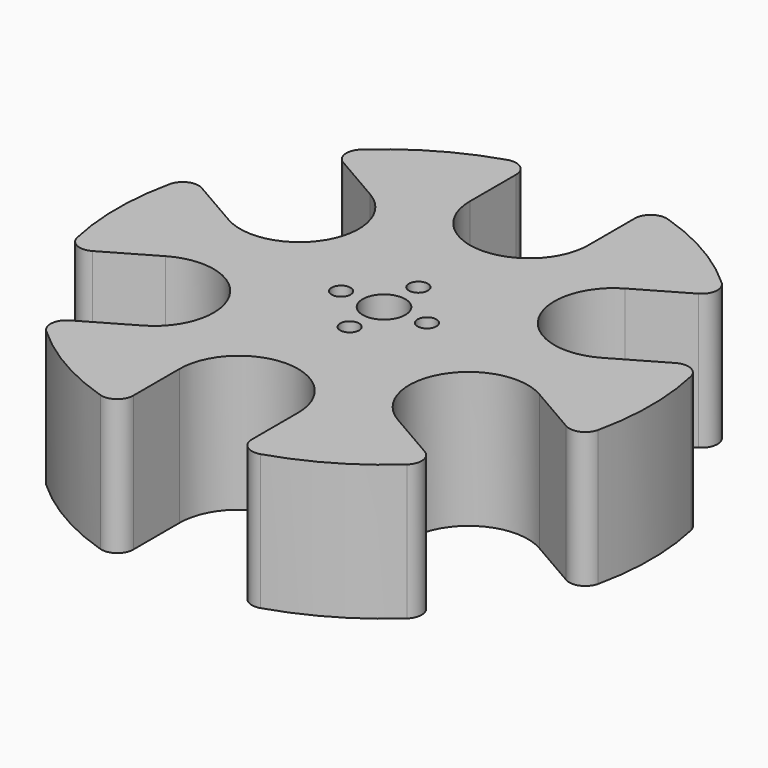
from build123d import *

# Parameters (mm, degrees)
F0_R     = 1.775
F0_R_2   = 4
F1_DEPTH = 25.4


with BuildPart() as f1:
    # F0 (on Top) → F1 (new body)
    with BuildSketch(Plane.XY):
        with BuildLine():
            ThreePointArc((-11.1125, 44.831209), (-12.338013, 47.250134), (-15.013298, 47.692776))
            ThreePointArc((-15.013298, 47.692776), (-25, 43.30127), (-33.796507, 36.848285))
            ThreePointArc((-33.796507, 36.848285), (-34.75081, 34.3101), (-33.268716, 32.039312))
            Line((-33.268716, 32.039312), (-23.888614, 26.623707))
            ThreePointArc((-23.888614, 26.623707), (-19.821156, 11.44375), (-35.001114, 7.376293))
            Line((-35.001114, 7.376293), (-44.381216, 12.791897))
            ThreePointArc((-44.381216, 12.791897), (-47.088823, 12.940034), (-48.809805, 10.844491))
            ThreePointArc((-48.809805, 10.844491), (-50, 0), (-48.809805, -10.844491))
            ThreePointArc((-48.809805, -10.844491), (-47.088823, -12.940034), (-44.381216, -12.791897))
            Line((-44.381216, -12.791897), (-35.001114, -7.376293))
            ThreePointArc((-35.001114, -7.376293), (-19.821156, -11.44375), (-23.888614, -26.623707))
            Line((-23.888614, -26.623707), (-33.268716, -32.039312))
            ThreePointArc((-33.268716, -32.039312), (-34.75081, -34.3101), (-33.796507, -36.848285))
            ThreePointArc((-33.796507, -36.848285), (-25, -43.30127), (-15.013298, -47.692776))
            ThreePointArc((-15.013298, -47.692776), (-12.338013, -47.250134), (-11.1125, -44.831209))
            Line((-11.1125, -44.831209), (-11.1125, -34))
            ThreePointArc((-11.1125, -34), (0, -22.8875), (11.1125, -34))
            Line((11.1125, -34), (11.1125, -44.831209))
            ThreePointArc((11.1125, -44.831209), (12.338013, -47.250134), (15.013298, -47.692776))
            ThreePointArc((15.013298, -47.692776), (25, -43.30127), (33.796507, -36.848285))
            ThreePointArc((33.796507, -36.848285), (34.75081, -34.3101), (33.268716, -32.039312))
            Line((33.268716, -32.039312), (23.888614, -26.623707))
            ThreePointArc((23.888614, -26.623707), (19.821156, -11.44375), (35.001114, -7.376293))
            Line((35.001114, -7.376293), (44.381216, -12.791897))
            ThreePointArc((44.381216, -12.791897), (47.088823, -12.940034), (48.809805, -10.844491))
            ThreePointArc((48.809805, -10.844491), (50, 0), (48.809805, 10.844491))
            ThreePointArc((48.809805, 10.844491), (47.088823, 12.940034), (44.381216, 12.791897))
            Line((44.381216, 12.791897), (35.001114, 7.376293))
            ThreePointArc((35.001114, 7.376293), (19.821156, 11.44375), (23.888614, 26.623707))
            Line((23.888614, 26.623707), (33.268716, 32.039312))
            ThreePointArc((33.268716, 32.039312), (34.75081, 34.3101), (33.796507, 36.848285))
            ThreePointArc((33.796507, 36.848285), (25, 43.30127), (15.013298, 47.692776))
            ThreePointArc((15.013298, 47.692776), (12.338013, 47.250134), (11.1125, 44.831209))
            Line((11.1125, 44.831209), (11.1125, 34))
            ThreePointArc((11.1125, 34), (0, 22.8875), (-11.1125, 34))
            Line((-11.1125, 34), (-11.1125, 44.831209))
        make_face()
        with Locations((-8.05, 0)):
            Circle(F0_R, mode=Mode.SUBTRACT)
        with Locations((0, -8.05)):
            Circle(F0_R, mode=Mode.SUBTRACT)
        Circle(F0_R_2, mode=Mode.SUBTRACT)
        with Locations((8.05, 0)):
            Circle(F0_R, mode=Mode.SUBTRACT)
        with Locations((0, 8.05)):
            Circle(F0_R, mode=Mode.SUBTRACT)
    extrude(amount=F1_DEPTH)


solid = f1.part
